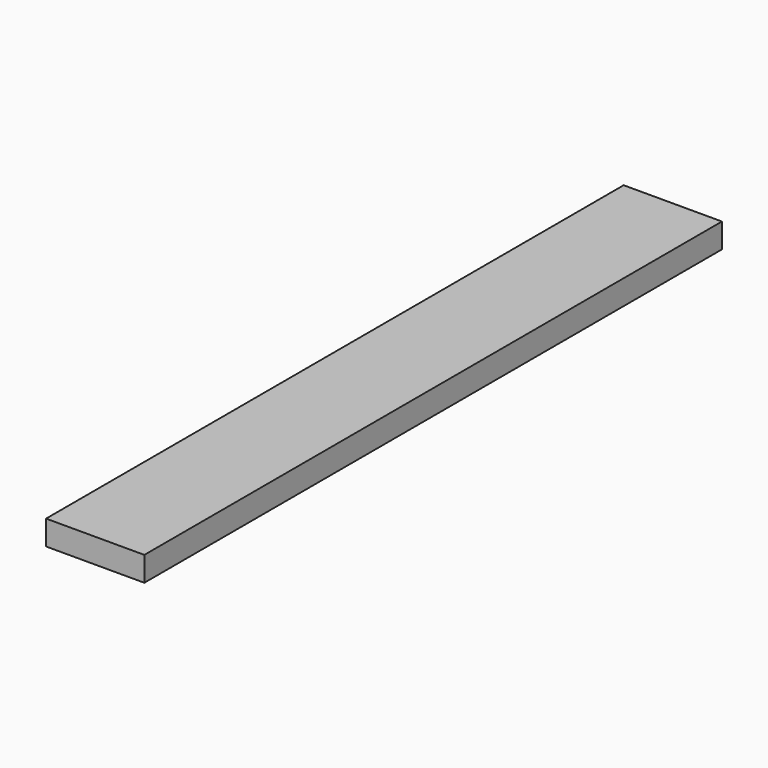
from build123d import *

# Parameters (mm, degrees)
F0_W     = 101.6
F0_H     = 25.4
F1_DEPTH = 746.6


with BuildPart() as f1:
    # F0 (on Front) → F1 (new body)
    with BuildSketch(Plane.XZ):
        with Locations((0, 12.7)):
            Rectangle(F0_W, F0_H)
        with Locations((0, 12.7)):
            Rectangle(F0_W, F0_H)
    extrude(amount=-F1_DEPTH)


solid = f1.part
